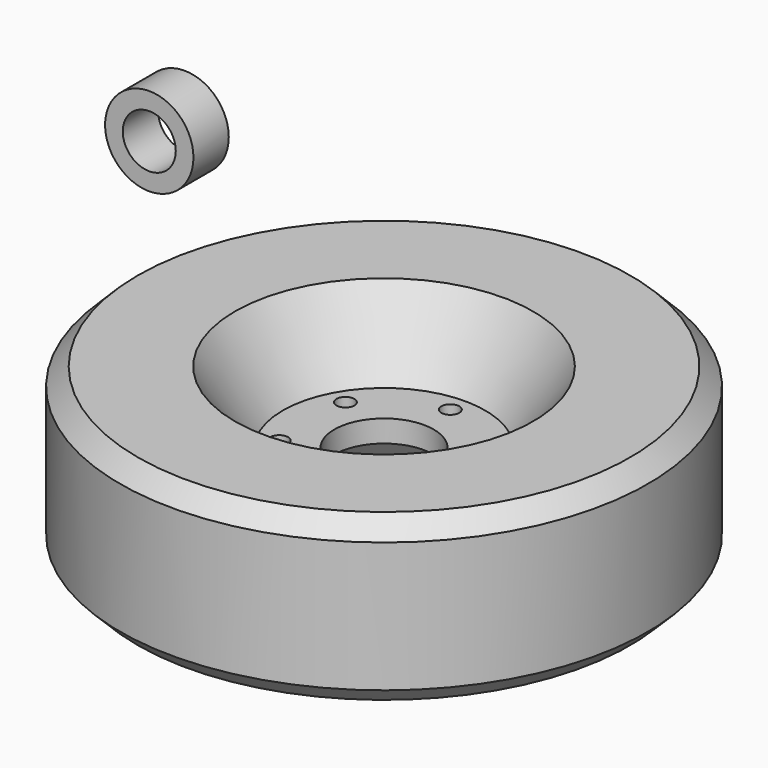
from build123d import *

# Parameters (mm, degrees)
F2_R     = 2.5781
F2_R_2   = 14.2875
F3_DEPTH = 26.9631
F4_SIZE  = 5.08
F5_R     = 12.7
F5_R_2   = 7.62
F6_DEPTH = 12.7


with BuildPart() as f1:
    # F0 (on Front) → F1 (revolve)
    with BuildSketch(Plane.XZ):
        Polygon((-42.8625, 23.7871), (-75.8952, 23.7871), (-75.8952, -23.7871), (-42.8625, -23.7871), (-29.0957, -3.175), (0, -3.175), (0, 3.175), (-29.0957, 3.175), align=None)
    revolve(axis=Axis((0, 0, 0), (0, 0, -1)))

    # F2 (on face) → F3 (cut, through all)
    with BuildSketch(Plane.XY.offset(3.175)):
        with Locations((-20.62223, 11.90625)):
            Circle(F2_R)
        with Locations((-20.62223, -11.90625)):
            Circle(F2_R)
        Circle(F2_R_2)
        with Locations((20.62223, 11.90625)):
            Circle(F2_R)
        with Locations((0, 23.8125)):
            Circle(F2_R)
        with Locations((0, -23.8125)):
            Circle(F2_R)
        with Locations((20.62223, -11.90625)):
            Circle(F2_R)
    extrude(amount=-F3_DEPTH, mode=Mode.SUBTRACT)

    # F4
    f4_edges = [f1.edges().sort_by_distance(p)[0] for p in [
        (75.8952, 0, 23.7871),
        (75.8952, 0, -23.7871),
    ]]
    chamfer(f4_edges, length=F4_SIZE)


with BuildPart() as f6:
    # F5 (on Front) → F6 (new body)
    with BuildSketch(Plane.XZ):
        with Locations((-57.346523, 67.300461)):
            Circle(F5_R)
        with Locations((-57.346523, 67.300461)):
            Circle(F5_R_2, mode=Mode.SUBTRACT)
    extrude(amount=F6_DEPTH)


solid = Compound([f1.part, f6.part])
